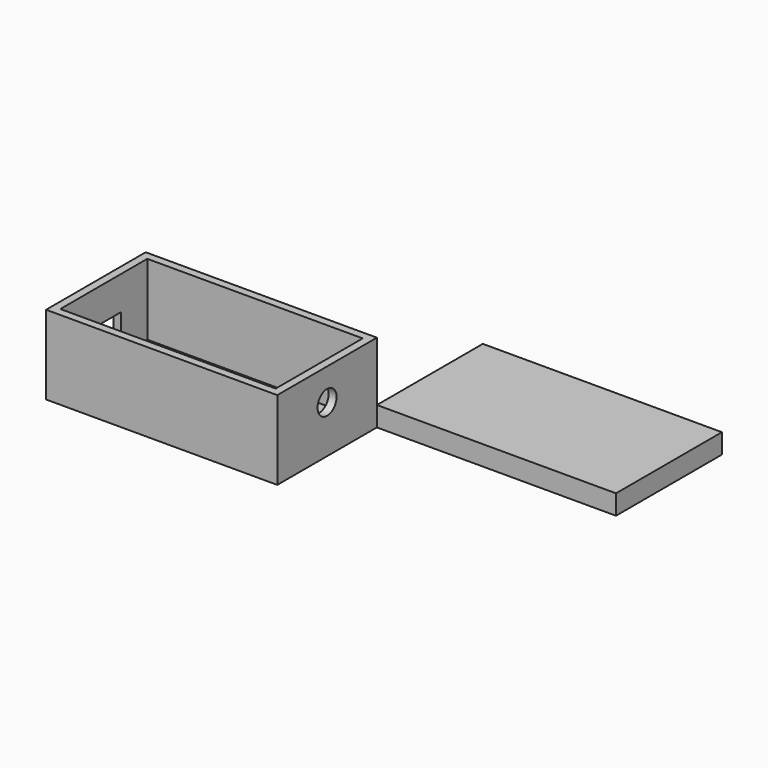
from build123d import *

# Parameters (mm, degrees)
SKETCH_W        = 58.5
SKETCH_H        = 31.5
PAD_DEPTH       = 2
SKETCH001_W     = 58.5
SKETCH001_H     = 31.5
PAD001_DEPTH    = 18
SKETCH002_W     = 54.5
SKETCH002_H     = 27.5
POCKET_DEPTH    = 18
SKETCH003_R     = 2.25
PAD002_DEPTH    = 4
SKETCH004_R     = 1.35
POCKET001_DEPTH = 6.501
SKETCH006_W     = 11
SKETCH006_H     = 5
POCKET002_DEPTH = 2.004769
SKETCH007_R     = 3
POCKET003_DEPTH = 1.995231
SKETCH008_W     = 60.5
SKETCH008_H     = 33.5
PAD003_DEPTH    = 5
SKETCH009_W     = 58.5
SKETCH009_H     = 31.5
POCKET004_DEPTH = 3.5


with BuildPart() as body001:
    # Sketch → Pad (new body)
    with BuildSketch(Plane.XY):
        with Locations((-29.25, -15.75)):
            Rectangle(SKETCH_W, SKETCH_H)
    extrude(amount=PAD_DEPTH)

    # Sketch001 (on Face6 of Pad) → Pad001 (join)
    with BuildSketch(Plane.XY.offset(2)):
        with Locations((-29.25, -15.75)):
            Rectangle(SKETCH001_W, SKETCH001_H)
    extrude(amount=PAD001_DEPTH)

    # Sketch002 (on Face3 of Pad001) → Pocket (cut)
    with BuildSketch(Plane.XY.offset(20)):
        with Locations((-29.245231, -15.750885)):
            Rectangle(SKETCH002_W, SKETCH002_H)
    extrude(amount=-POCKET_DEPTH, mode=Mode.SUBTRACT)

    # Sketch003 (on Face11 of Pocket) → Pad002 (join)
    with BuildSketch(Plane.XY.offset(2)):
        with Locations((-48.487888, -10.501435)):
            Circle(SKETCH003_R)
        with Locations((-48.487888, -22.001435)):
            Circle(SKETCH003_R)
        with Locations((-9.987888, -22.001435)):
            Circle(SKETCH003_R)
        with Locations((-9.987888, -10.501435)):
            Circle(SKETCH003_R)
    extrude(amount=PAD002_DEPTH)

    # Sketch004 → Pocket001 (cut, through all)
    with BuildSketch(Plane.XY.offset(6.5)):
        with Locations((-48.487888, -10.501435)):
            Circle(SKETCH004_R)
        with Locations((-48.487888, -22.001435)):
            Circle(SKETCH004_R)
        with Locations((-9.987888, -22.001435)):
            Circle(SKETCH004_R)
        with Locations((-9.987888, -10.501435)):
            Circle(SKETCH004_R)
    extrude(amount=-POCKET001_DEPTH, mode=Mode.SUBTRACT)

    # Sketch006 (on Face4 of Pocket001) → Pocket002 (cut)
    with BuildSketch(Plane(origin=(-58.5, 0, 0), x_dir=(0, -1, 0), z_dir=(-1, 0, 0))):
        with Locations((15.747794, 9.001689)):
            Rectangle(SKETCH006_W, SKETCH006_H)
    extrude(amount=-POCKET002_DEPTH, mode=Mode.SUBTRACT)

    # Sketch007 (on Face3 of Pocket002) → Pocket003 (cut)
    with BuildSketch(Plane.YZ):
        with Locations((-15.754011, 12.000229)):
            Circle(SKETCH007_R)
    extrude(amount=-POCKET003_DEPTH, mode=Mode.SUBTRACT)


with BuildPart() as body:
    # Sketch008 → Pad003 (new body)
    with BuildSketch(Plane.XY):
        with Locations((30.25, 16.75)):
            Rectangle(SKETCH008_W, SKETCH008_H)
    extrude(amount=PAD003_DEPTH)

    # Sketch009 (on Face5 of Pad003) → Pocket004 (cut)
    with BuildSketch(Plane(origin=(0, 0, 0), x_dir=(1, 0, 0), z_dir=(0, 0, -1))):
        with Locations((30.249979, -16.746071)):
            Rectangle(SKETCH009_W, SKETCH009_H)
    extrude(amount=-POCKET004_DEPTH, mode=Mode.SUBTRACT)


solid = Compound([body001.part, body.part])
